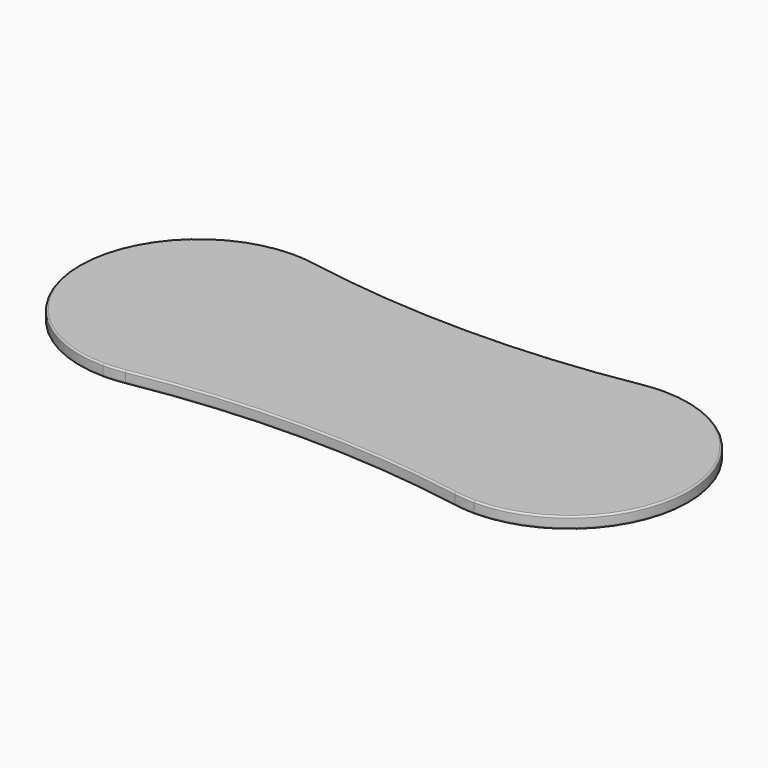
from build123d import *

# Parameters (mm, degrees)
F1_DEPTH = 5.55625
F2_R     = 1.5875


with BuildPart() as f1:
    # F0 (on Top) → F1 (new body, symmetric)
    with BuildSketch(Plane.XY):
        with BuildLine():
            ThreePointArc((-157.952013, 112.563526), (-167.838099, 113.865054), (-177.8, 114.3))
            ThreePointArc((-177.8, 114.3), (-292.1, 0), (-177.8, -114.3))
            ThreePointArc((-177.8, -114.3), (-167.838099, -113.865054), (-157.952013, -112.563526))
            ThreePointArc((-157.952013, -112.563526), (0, -98.744516), (157.952013, -112.563526))
            ThreePointArc((157.952013, -112.563526), (167.838099, -113.865054), (177.8, -114.3))
            ThreePointArc((177.8, -114.3), (292.1, 0), (177.8, 114.3))
            ThreePointArc((177.8, 114.3), (167.838099, 113.865054), (157.952013, 112.563526))
            ThreePointArc((157.952013, 112.563526), (0, 98.744516), (-157.952013, 112.563526))
        make_face()
    extrude(amount=F1_DEPTH, both=True)

    # F2
    f2_edges = [f1.edges().sort_by_distance(p)[0] for p in [
        (167.838099, -113.865054, 5.55625),
        (292.1, 0, 5.55625),
        (167.838099, 113.865054, 5.55625),
        (0, 98.744516, 5.55625),
        (-167.838099, 113.865054, 5.55625),
        (-292.1, 0, 5.55625),
        (-167.838099, -113.865054, 5.55625),
        (0, -98.744516, 5.55625),
        (167.838099, -113.865054, -5.55625),
        (292.1, 0, -5.55625),
        (167.838099, 113.865054, -5.55625),
        (0, 98.744516, -5.55625),
        (-167.838099, 113.865054, -5.55625),
        (-292.1, 0, -5.55625),
        (-167.838099, -113.865054, -5.55625),
        (0, -98.744516, -5.55625),
    ]]
    fillet(f2_edges, radius=F2_R)


solid = f1.part
